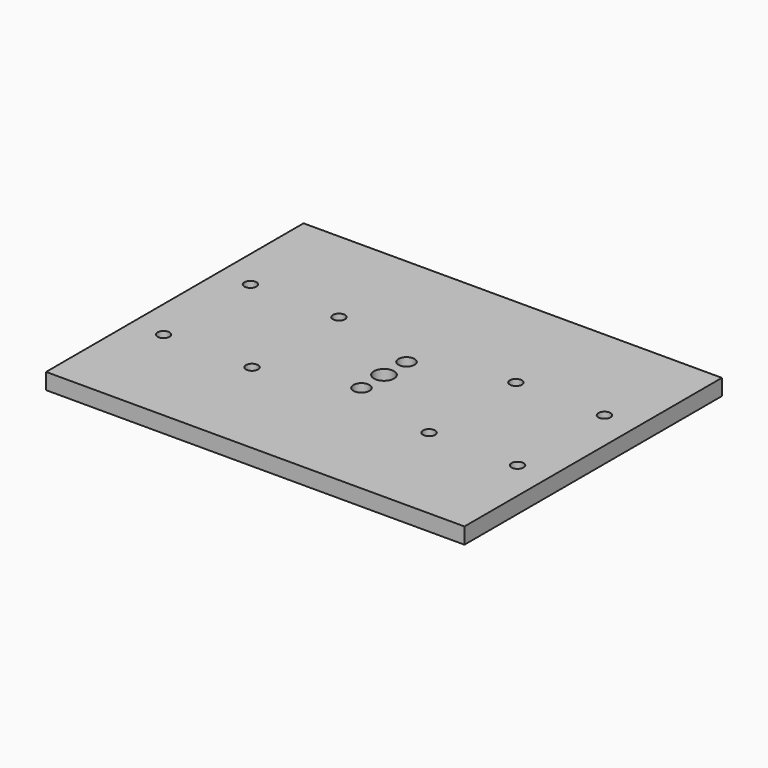
from build123d import *

# Parameters (mm, degrees)
F0_W     = 330.2
F0_H     = 254
F1_DEPTH = 6.35
F3_D     = 12.7
F5_D     = 15.875
F7_D     = 9.525


with BuildPart() as f1:
    # F0 (on Top) → F1 (new body, symmetric)
    with BuildSketch(Plane.XY):
        Rectangle(F0_W, F0_H)
    extrude(amount=F1_DEPTH, both=True)

    # F3 (through all)
    with Locations(Plane.XY.offset(6.35)):
        with Locations((0, 22.225), (0, -22.225)):
            Hole(F3_D / 2)

    # F5 (through all)
    with Locations(Plane.XY.offset(6.35)):
        with Locations((0, 0)):
            Hole(F5_D / 2)

    # F7 (through all)
    with Locations(Plane.XY.offset(6.35)):
        with Locations((-69.85, 42.8625), (-139.7, 42.8625), (-139.7, -42.8625), (-69.85, -42.8625), (69.85, 42.8625), (139.7, 42.8625), (139.7, -42.8625), (69.85, -42.8625)):
            Hole(F7_D / 2)


solid = f1.part
